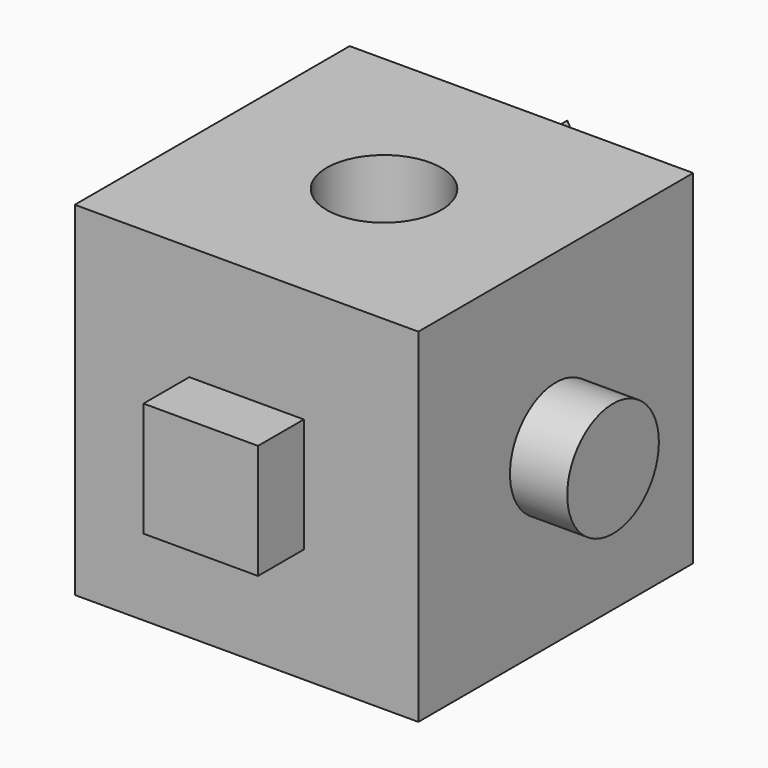
from build123d import *

# Parameters (mm, degrees)
F0_W     = 76.2
F0_H     = 76.2
F1_DEPTH = 76.2
F2_W     = 25.4
F2_H     = 25.4
F3_DEPTH = 12.7
F4_R     = 12.7
F5_DEPTH = 12.7
F7_D     = 25.4
F9_DEPTH = 12.7


with BuildPart() as f1:
    # F0 (on Front) → F1 (new body)
    with BuildSketch(Plane.XZ):
        with Locations((-38.1, 49.621367)):
            Rectangle(F0_W, F0_H)
    extrude(amount=F1_DEPTH)

    # F2 (on face) → F3 (join)
    with BuildSketch(Plane.XZ.offset(76.2)):
        with Locations((-38.1, 49.621367)):
            Rectangle(F2_W, F2_H)
    extrude(amount=F3_DEPTH)

    # F4 (on face) → F5 (join)
    with BuildSketch(Plane.YZ):
        with Locations((-38.1, 49.621367)):
            Circle(F4_R)
    extrude(amount=F5_DEPTH)

    # F7 (through all)
    with Locations(Plane.XY.offset(87.721367)):
        with Locations((-38.1, -38.1)):
            Hole(F7_D / 2)

    # F8 (on face) → F9 (join)
    with BuildSketch(Plane(origin=(0, 0, 0), x_dir=(-1, 0, 0), z_dir=(0, 1, 0))):
        Polygon((11.431118, 34.224081), (64.768882, 34.224081), (38.1, 80.415939), align=None)
    extrude(amount=F9_DEPTH)


solid = f1.part
